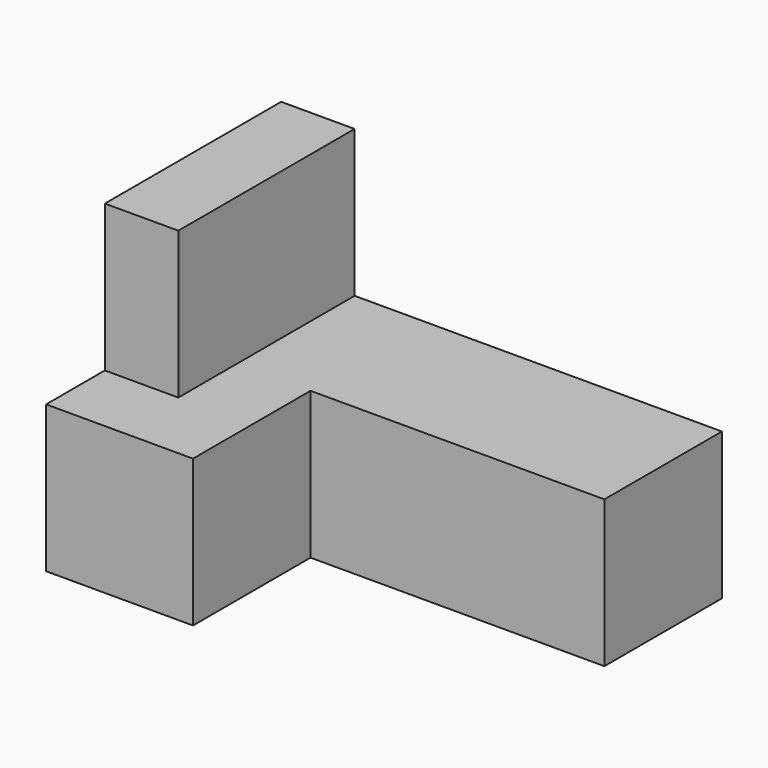
from build123d import *

# Parameters (mm, degrees)
F1_DEPTH = 12.7
F2_W     = 19.05
F2_H     = 12.7
F3_DEPTH = 6.35


with BuildPart() as f1:
    # F0 (on Top) → F1 (new body)
    with BuildSketch(Plane.XY):
        Polygon((38.1, 25.4), (0, 25.4), (0, 0), (12.7, 0), (12.7, 12.7), (38.1, 12.7), align=None)
    extrude(amount=F1_DEPTH)

    # F2 (on face) → F3 (join)
    with BuildSketch(Plane(origin=(0, 0, 0), x_dir=(0, -1, 0), z_dir=(-1, 0, 0))):
        with Locations((-15.875, 19.05)):
            Rectangle(F2_W, F2_H)
    extrude(amount=-F3_DEPTH)


solid = f1.part
